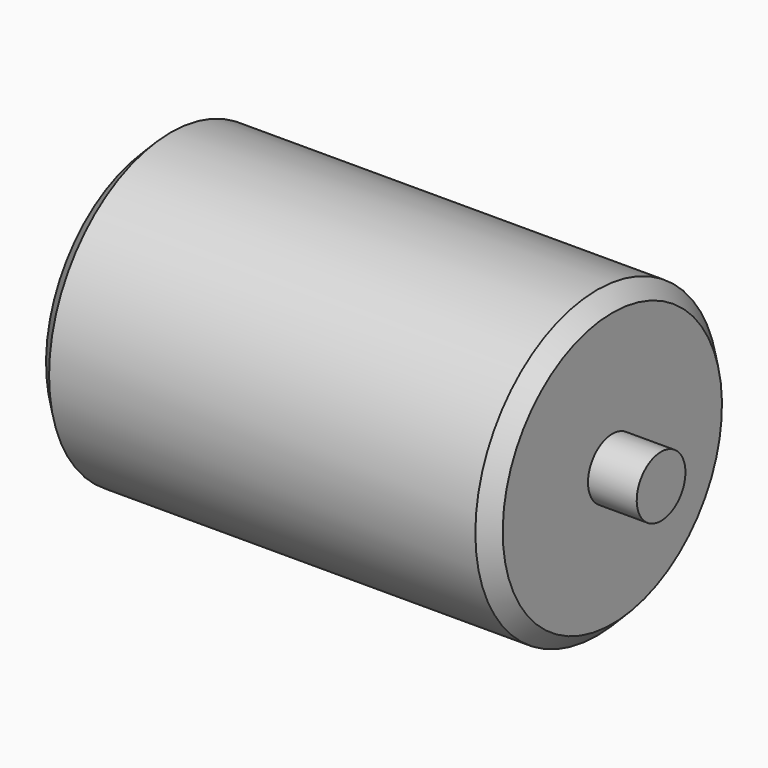
from build123d import *

# Parameters (mm, degrees)
F2_SIZE2 = 5
F2_SIZE  = 5
F3_SIZE2 = 5
F3_SIZE  = 5


with BuildPart() as f1:
    # F0 (on Front) → F1 (revolve)
    with BuildSketch(Plane.XZ):
        Polygon((0, 10), (0, 0), (182, 0), (182, 10), (166, 10), (166, 50), (16, 50), (16, 10), align=None)
    revolve(axis=Axis((91, 0, 0), (-1, 0, 0)))

    # F2
    f2_edges = [f1.edges().sort_by_distance(p)[0] for p in [
        (166, 0, -50),
    ]]
    chamfer(f2_edges, length=F2_SIZE, length2=F2_SIZE2)

    # F3
    f3_edges = [f1.edges().sort_by_distance(p)[0] for p in [
        (16, 0, -50),
    ]]
    chamfer(f3_edges, length=F3_SIZE, length2=F3_SIZE2)


solid = f1.part
